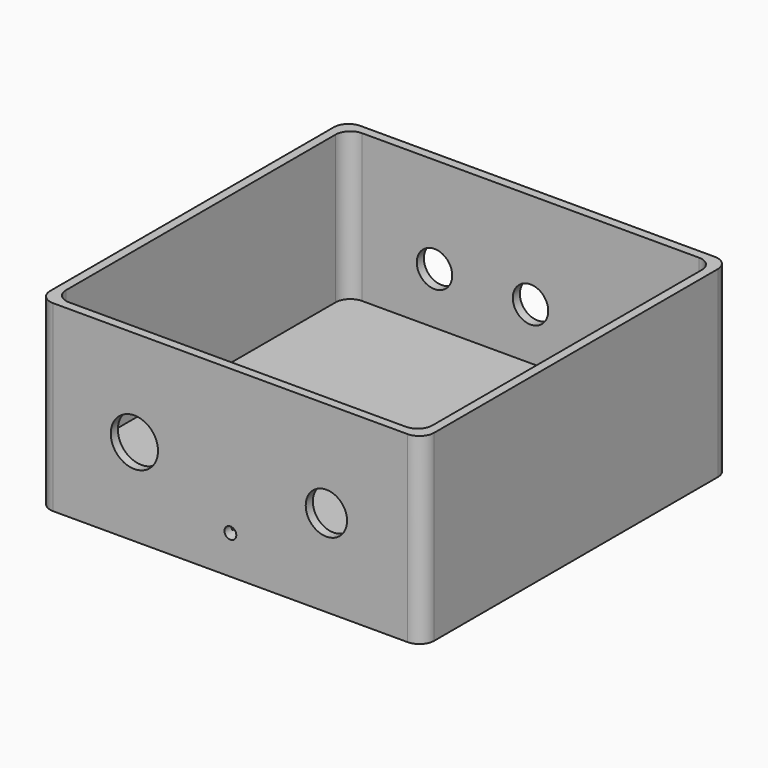
from build123d import *

# Parameters (mm, degrees)
F1_DEPTH = 62
F2_DEPTH = 12
F4_D     = 12
F4_DEPTH = 8
F4_TIP   = 3.6051637142
F6_D     = 16
F6_DEPTH = 8
F6_TIP   = 4.8068849522
F7_D     = 4
F7_DEPTH = 8
F7_TIP   = 1.2017212381
F8_D     = 14
F8_DEPTH = 8
F8_TIP   = 4.2060243332


with BuildPart() as f1:
    # F0 (on Top) → F1 (new body)
    with BuildSketch(Plane.XY):
        with BuildLine():
            ThreePointArc((65, 60), (63.5355339059, 63.5355339059), (60, 65))
            Line((60, 65), (-60, 65))
            ThreePointArc((-60, 65), (-63.5355339059, 63.5355339059), (-65, 60))
            Line((-65, 60), (-65, -60))
            ThreePointArc((-65, -60), (-63.5355339059, -63.5355339059), (-60, -65))
            Line((-60, -65), (60, -65))
            ThreePointArc((60, -65), (63.5355339059, -63.5355339059), (65, -60))
            Line((65, -60), (65, 60))
        make_face()
        with BuildLine():
            Line((-57, 62), (57, 62))
            ThreePointArc((57, 62), (60.5355339059, 60.5355339059), (62, 57))
            Line((62, 57), (62, -57))
            ThreePointArc((62, -57), (60.5355339059, -60.5355339059), (57, -62))
            Line((57, -62), (-57, -62))
            ThreePointArc((-57, -62), (-60.5355339059, -60.5355339059), (-62, -57))
            Line((-62, -57), (-62, 57))
            ThreePointArc((-62, 57), (-60.5355339059, 60.5355339059), (-57, 62))
        make_face(mode=Mode.SUBTRACT)
    extrude(amount=F1_DEPTH)

    # F0 (on Top) → F2 (join)
    with BuildSketch(Plane.XY):
        with BuildLine():
            ThreePointArc((62, 57), (60.5355339059, 60.5355339059), (57, 62))
            Line((57, 62), (-57, 62))
            ThreePointArc((-57, 62), (-60.5355339059, 60.5355339059), (-62, 57))
            Line((-62, 57), (-62, -57))
            ThreePointArc((-62, -57), (-60.5355339059, -60.5355339059), (-57, -62))
            Line((-57, -62), (57, -62))
            ThreePointArc((57, -62), (60.5355339059, -60.5355339059), (62, -57))
            Line((62, -57), (62, 57))
        make_face()
    extrude(amount=F2_DEPTH)

    # F4
    with Locations(Plane(origin=(0, 65, 0), x_dir=(-1, 0, 0), z_dir=(0, 1, 0))):
        with Locations((-32.5, 29.5), (0, 29.5), (32.5, 29.5)):
            Hole(F4_D / 2, depth=F4_DEPTH)
            with Locations((0, 0, -(F4_DEPTH + F4_TIP / 2))):  # 118° drill point
                Cone(0, F4_D / 2, F4_TIP, mode=Mode.SUBTRACT)

    # F6
    with Locations(Plane.XZ.offset(65)):
        with Locations((-32.5, 29.5)):
            Hole(F6_D / 2, depth=F6_DEPTH)
            with Locations((0, 0, -(F6_DEPTH + F6_TIP / 2))):  # 118° drill point
                Cone(0, F6_D / 2, F6_TIP, mode=Mode.SUBTRACT)

    # F7
    with Locations(Plane.XZ.offset(65)):
        with Locations((0, 13)):
            Hole(F7_D / 2, depth=F7_DEPTH)
            with Locations((0, 0, -(F7_DEPTH + F7_TIP / 2))):  # 118° drill point
                Cone(0, F7_D / 2, F7_TIP, mode=Mode.SUBTRACT)

    # F8
    with Locations(Plane.XZ.offset(65)):
        with Locations((32.5, 29.5)):
            Hole(F8_D / 2, depth=F8_DEPTH)
            with Locations((0, 0, -(F8_DEPTH + F8_TIP / 2))):  # 118° drill point
                Cone(0, F8_D / 2, F8_TIP, mode=Mode.SUBTRACT)


solid = f1.part
